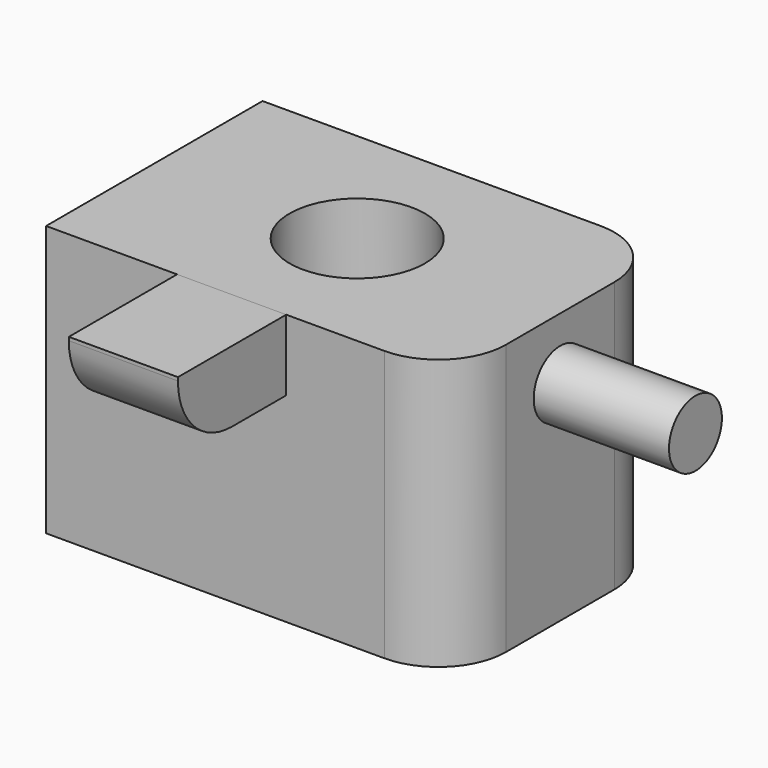
from build123d import *

# Parameters (mm, degrees)
F0_W     = 76.2
F0_H     = 50.8
F1_DEPTH = 50.8
F2_R     = 12.7
F3_DEPTH = 25.4
F4_R     = 12.7
F5_W     = 20.487596
F5_H     = 13.337251
F6_DEPTH = 25.4
F7_R     = 12.7
F8_R     = 6.211161
F9_DEPTH = 25.4


with BuildPart() as f1:
    # F0 (on Top) → F1 (new body)
    with BuildSketch(Plane.XY):
        Rectangle(F0_W, F0_H)
    extrude(amount=F1_DEPTH)

    # F2 (on face) → F3 (cut)
    with BuildSketch(Plane.XY.offset(50.8)):
        Circle(F2_R)
    extrude(amount=-F3_DEPTH, mode=Mode.SUBTRACT)

    # F4
    f4_edges = [f1.edges().sort_by_distance(p)[0] for p in [
        (38.1, -25.4, 25.4),
        (38.1, 25.4, 25.4),
    ]]
    fillet(f4_edges, radius=F4_R)

    # F5 (on face) → F6 (join)
    with BuildSketch(Plane.XZ.offset(25.4)):
        with Locations((-3.261952, 44.131374)):
            Rectangle(F5_W, F5_H)
    extrude(amount=F6_DEPTH)

    # F7
    f7_edges = [f1.edges().sort_by_distance(p)[0] for p in [
        (-3.261952, -50.8, 37.462749),
    ]]
    fillet(f7_edges, radius=F7_R)

    # F8 (on face) → F9 (join)
    with BuildSketch(Plane.YZ.offset(38.1)):
        with Locations((0, 39.23849)):
            Circle(F8_R)
    extrude(amount=F9_DEPTH)


solid = f1.part
